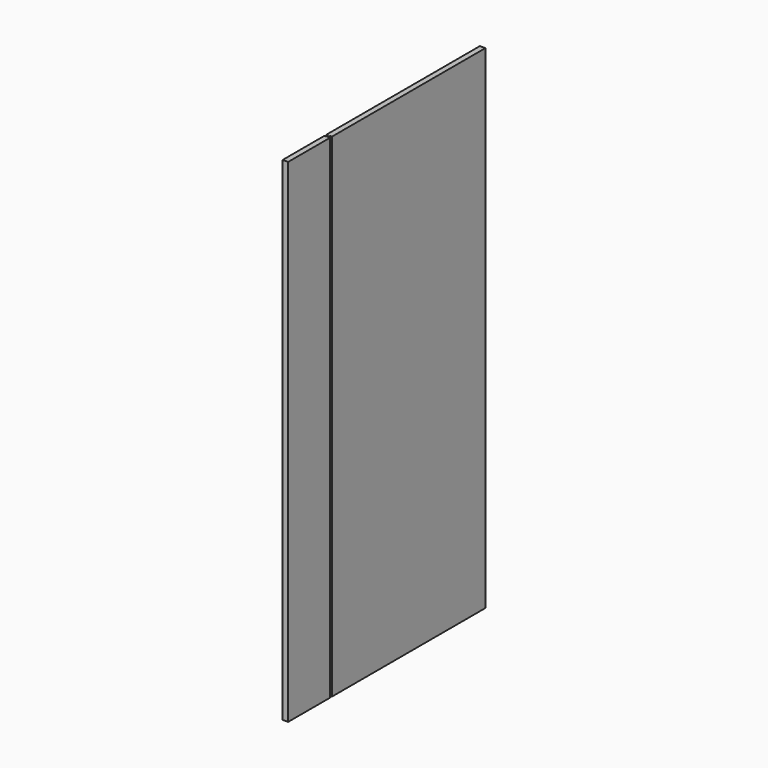
from build123d import *

# Parameters (mm, degrees)
F0_W     = 6.605114
F0_H     = 10
F1_DEPTH = 1800


with BuildPart() as f1:
    # F0 (on Top) → F1 (new body)
    with BuildSketch(Plane.XY):
        Polygon((20, 0), (0, 0), (0, -700), (6.812549, -700), (13.417663, -700), (20, -700), align=None)
        with Locations((10.115106, -705)):
            Rectangle(F0_W, F0_H)
        Polygon((13.417663, -710), (6.812549, -710), (0, -710), (0, -900), (20, -900), (20, -710), align=None)
    extrude(amount=F1_DEPTH)


solid = f1.part
